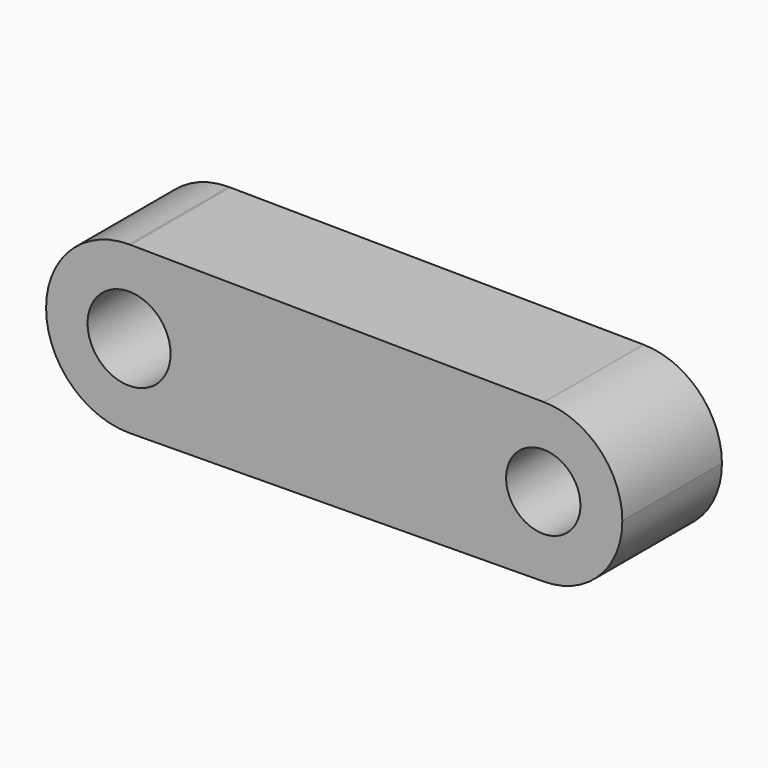
from build123d import *

# Parameters (mm, degrees)
F0_R     = 5
F0_R_2   = 4.4774041187
F1_DEPTH = 15


with BuildPart() as f1:
    # F0 (on Front) → F1 (new body)
    with BuildSketch(Plane.XZ):
        with BuildLine():
            Line((49.9977292464, 9.523481164), (0.1905988779, 9.9981834384))
            ThreePointArc((0.1905988779, 9.9981834384), (7.1381366189, 7.0033567388), (10, 0))
            ThreePointArc((10, 0), (7.1381366189, -7.0033567388), (0.1905988779, -9.9981834384))
            Line((0.1905988779, -9.9981834384), (49.9977292464, -9.523481164))
            ThreePointArc((49.9977292464, -9.523481164), (40.3830490678, 0), (49.9977292464, 9.523481164))
        make_face()
        with BuildLine():
            Line((0.1905988779, 9.9981834384), (0, 10))
            ThreePointArc((0, 10), (-10, 0), (0, -10))
            Line((0, -10), (0.1905988779, -9.9981834384))
            ThreePointArc((0.1905988779, -9.9981834384), (7.1381366189, -7.0033567388), (10, 0))
            ThreePointArc((10, 0), (7.1381366189, 7.0033567388), (0.1905988779, 9.9981834384))
        make_face()
        Circle(F0_R, mode=Mode.SUBTRACT)
        with BuildLine():
            ThreePointArc((59.4308764543, 0), (56.6734014185, 6.7022563314), (49.9977292464, 9.523481164))
            ThreePointArc((49.9977292464, 9.523481164), (40.3830490678, 0), (49.9977292464, -9.523481164))
            ThreePointArc((49.9977292464, -9.523481164), (56.6734014185, -6.7022563314), (59.4308764543, 0))
        make_face()
        with Locations((49.9069627611, 0)):
            Circle(F0_R_2, mode=Mode.SUBTRACT)
    extrude(amount=F1_DEPTH)


solid = f1.part
